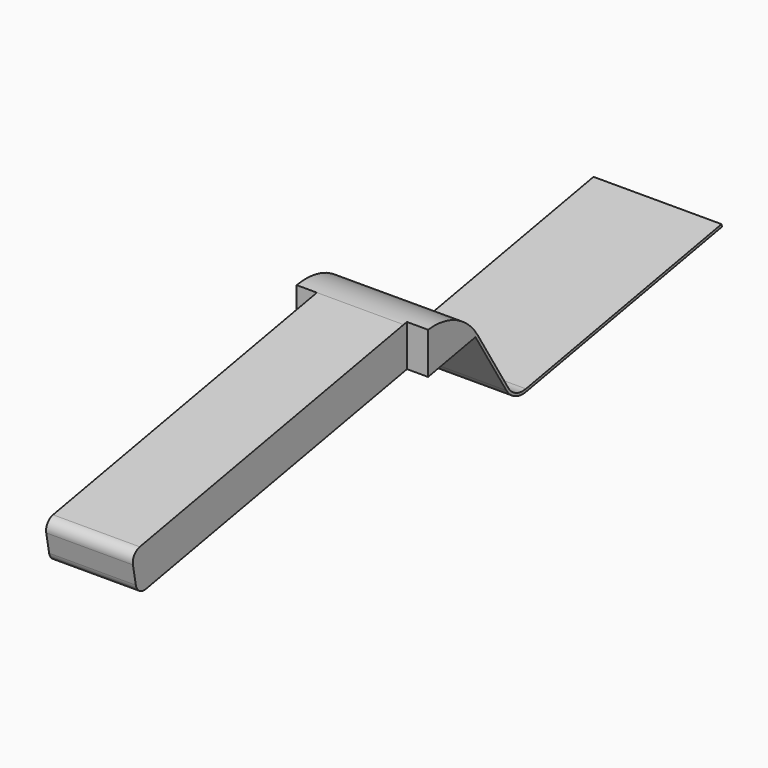
from build123d import *

# Parameters (mm, degrees)
F1_DEPTH = 38.1
F3_DEPTH = 128.12069


with BuildPart() as f1:
    # F0 (on Right) → F1 (new body, symmetric)
    with BuildSketch(Plane.YZ):
        with BuildLine():
            Line((154.086864, 28.737631), (8.565301, 1.597453))
            ThreePointArc((8.565301, 1.597453), (1.093978, 2.470085), (-4.573169, 7.416357))
            Line((-4.573169, 7.416357), (-27.312992, 44.293772))
            ThreePointArc((-27.312992, 44.293772), (-44.314432, 59.132589), (-66.728402, 61.750487))
            Line((-66.728402, 61.750487), (-263.038387, 25.138126))
            ThreePointArc((-263.038387, 25.138126), (-267.111412, 22.486553), (-268.116532, 17.731544))
            Line((-268.116532, 17.731544), (-265.973767, 6.242363))
            ThreePointArc((-265.973767, 6.242363), (-263.322195, 2.169337), (-258.567186, 1.164218))
            Line((-258.567186, 1.164218), (-28.985677, 43.981812))
            Line((-28.985677, 43.981812), (-28.663787, 43.4598))
            Line((-28.663787, 43.4598), (-5.924423, 6.58313))
            ThreePointArc((-5.924423, 6.58313), (0.451117, 1.018574), (8.856355, 0.036862))
            Line((8.856355, 0.036862), (154.377918, 27.17704))
            Line((154.377918, 27.17704), (154.086864, 28.737631))
        make_face()
    extrude(amount=F1_DEPTH, both=True)

    # F2 (on Top) → F3 (cut)
    with BuildSketch(Plane.XY):
        Polygon((25.548927, -64.218008), (25.548927, -283.9441), (-26.078172, -283.9441), (-26.078172, -66.728402), (-80.359098, -66.728402), (-80.359098, -214.365948), (-85.915339, -313.584719), (82.359712, -321.52224), (75.215961, -64.218008), align=None)
    extrude(amount=F3_DEPTH, mode=Mode.SUBTRACT)


solid = f1.part
